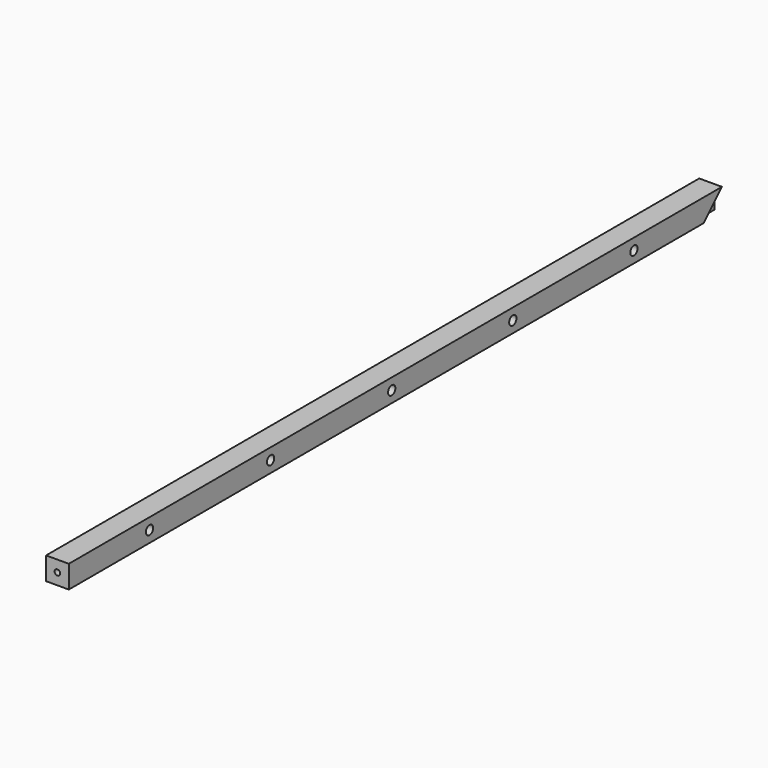
from build123d import *

# Parameters (mm, degrees)
F0_W      = 1618
F0_H      = 45
F1_DEPTH  = 22.5
F3_D      = 11
F3_DEPTH  = 27
F3_TIP    = 3.3047334047
F5_DEPTH  = 15
F7_DEPTH  = 15
F8_R      = 9
F9_DEPTH  = 45.001
F10_DEPTH = 15
F12_D     = 3.5
F12_DEPTH = 30
F12_TIP   = 1.0515060833


with BuildPart() as f1:
    # F0 (on Right) → F1 (new body, symmetric)
    with BuildSketch(Plane.YZ):
        with Locations((809, 0)):
            Rectangle(F0_W, F0_H)
    extrude(amount=F1_DEPTH, both=True)

    # F3
    with Locations(Plane.XZ):
        with Locations((0, 0)):
            Hole(F3_D / 2, depth=F3_DEPTH)
            with Locations((0, 0, -(F3_DEPTH + F3_TIP / 2))):  # 118° drill point
                Cone(0, F3_D / 2, F3_TIP, mode=Mode.SUBTRACT)

    # F4 (on face) → F5 (cut)
    with BuildSketch(Plane.YZ.offset(22.5)):
        Polygon((1618, -22.5), (1618, 22.5), (1573, -22.5), align=None)
    extrude(amount=-F5_DEPTH, mode=Mode.SUBTRACT)

    # F6 (on face) → F7 (cut)
    with BuildSketch(Plane(origin=(-22.5, 0, 0), x_dir=(0, -1, 0), z_dir=(-1, 0, 0))):
        Polygon((-1573, -22.5), (-1618, 22.5), (-1618, -22.5), align=None)
    extrude(amount=-F7_DEPTH, mode=Mode.SUBTRACT)

    # F8 (on face) → F9 (cut, through all)
    with BuildSketch(Plane(origin=(-22.5, 0, 0), x_dir=(0, -1, 0), z_dir=(-1, 0, 0))):
        with Locations((-200, 0)):
            Circle(F8_R)
        with Locations((-500, 0)):
            Circle(F8_R)
        with Locations((-800, 0)):
            Circle(F8_R)
        with Locations((-1100, 0)):
            Circle(F8_R)
        with Locations((-1400, 0)):
            Circle(F8_R)
    extrude(amount=-F9_DEPTH, mode=Mode.SUBTRACT)

    # F8 (on face) → F10 (join)
    with BuildSketch(Plane(origin=(-22.5, 0, 0), x_dir=(0, -1, 0), z_dir=(-1, 0, 0))):
        with Locations((-1400, 0)):
            Circle(F8_R)
        with Locations((-1100, 0)):
            Circle(F8_R)
        with Locations((-800, 0)):
            Circle(F8_R)
        with Locations((-500, 0)):
            Circle(F8_R)
        with Locations((-200, 0)):
            Circle(F8_R)
    extrude(amount=-F10_DEPTH)

    # F12
    with Locations(Plane(origin=(0, 0, -22.5), x_dir=(1, 0, 0), z_dir=(0, 0, -1))):
        with Locations((10, -1548), (10, -1508), (10, -1468), (-10, -1468), (-10, -1508), (-10, -1548)):
            Hole(F12_D / 2, depth=F12_DEPTH)
            with Locations((0, 0, -(F12_DEPTH + F12_TIP / 2))):  # 118° drill point
                Cone(0, F12_D / 2, F12_TIP, mode=Mode.SUBTRACT)


solid = f1.part
